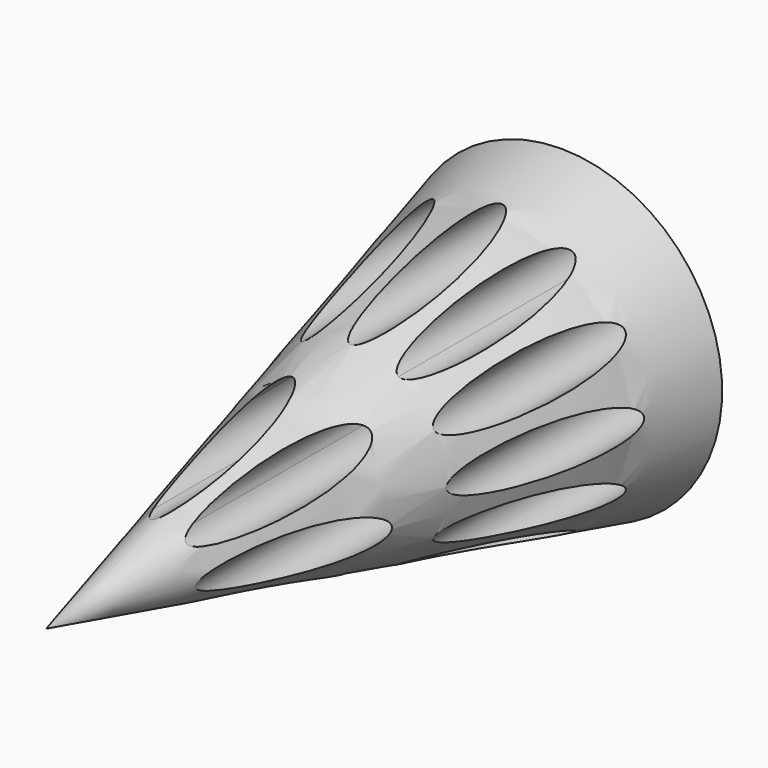
from build123d import *

# Parameters (mm, degrees)
F0_R     = 9.2951501464
F3_DEPTH = 254


with BuildPart() as f2:
    # F1 (on Right) → F2 (revolve)
    with BuildSketch(Plane.YZ):
        Polygon((-254, 0), (0, 0), (0, 63.5), align=None)
    revolve(axis=Axis((0, -127, 0), (0, -1, 0)))


with BuildPart() as f3:
    # F0 (on Front) → F3 (new body)
    with BuildSketch(Plane.XZ):
        with Locations((-46.8748604322, 0)):
            Circle(F0_R)
    extrude(amount=F3_DEPTH)


with BuildPart() as f3b:
    # F0 (on Front) → F3, piece 2 (new body)
    with BuildSketch(Plane.XZ):
        with Locations((-40.5948199332, -23.4374302161)):
            Circle(F0_R)
    extrude(amount=F3_DEPTH)


with BuildPart() as f3c:
    # F0 (on Front) → F3, piece 3 (new body)
    with BuildSketch(Plane.XZ):
        with BuildLine():
            ThreePointArc((-14.1422800698, -40.5948199332), (-15.3875940574, -35.94724486), (-18.7898551429, -32.5449837744))
            Line((-18.7898551429, -32.5449837744), (-28.0850052893, -48.6446560919))
            ThreePointArc((-28.0850052893, -48.6446560919), (-18.7898551429, -48.6446560919), (-14.1422800698, -40.5948199332))
        make_face()
        with BuildLine():
            Line((-28.0850052893, -48.6446560919), (-18.7898551429, -32.5449837744))
            ThreePointArc((-18.7898551429, -32.5449837744), (-31.4872663749, -35.94724486), (-28.0850052893, -48.6446560919))
        make_face()
    extrude(amount=F3_DEPTH)


with BuildPart() as f3d:
    # F0 (on Front) → F3, piece 4 (new body)
    with BuildSketch(Plane.XZ):
        with Locations((0, -46.8748604322)):
            Circle(F0_R)
    extrude(amount=F3_DEPTH)


with BuildPart() as f3e:
    # F0 (on Front) → F3, piece 5 (new body)
    with BuildSketch(Plane.XZ):
        with BuildLine():
            Line((28.0850052893, -48.6446560919), (18.7898551429, -32.5449837744))
            ThreePointArc((18.7898551429, -32.5449837744), (15.3875940574, -45.2423950064), (28.0850052893, -48.6446560919))
        make_face()
        with BuildLine():
            ThreePointArc((32.7325803625, -40.5948199332), (28.0850052893, -32.5449837744), (18.7898551429, -32.5449837744))
            Line((18.7898551429, -32.5449837744), (28.0850052893, -48.6446560919))
            ThreePointArc((28.0850052893, -48.6446560919), (31.4872663749, -45.2423950064), (32.7325803625, -40.5948199332))
        make_face()
    extrude(amount=F3_DEPTH)


with BuildPart() as f3f:
    # F0 (on Front) → F3, piece 6 (new body)
    with BuildSketch(Plane.XZ):
        with Locations((40.5948199332, -23.4374302161)):
            Circle(F0_R)
    extrude(amount=F3_DEPTH)


with BuildPart() as f3g:
    # F0 (on Front) → F3, piece 7 (new body)
    with BuildSketch(Plane.XZ):
        with Locations((46.8748604322, 0)):
            Circle(F0_R)
    extrude(amount=F3_DEPTH)


with BuildPart() as f3h:
    # F0 (on Front) → F3, piece 8 (new body)
    with BuildSketch(Plane.XZ):
        with Locations((40.5948199332, 23.4374302161)):
            Circle(F0_R)
    extrude(amount=F3_DEPTH)


with BuildPart() as f3i:
    # F0 (on Front) → F3, piece 9 (new body)
    with BuildSketch(Plane.XZ):
        with BuildLine():
            Line((28.0850052893, 48.6446560919), (18.7898551429, 32.5449837744))
            ThreePointArc((18.7898551429, 32.5449837744), (28.0850052893, 32.5449837744), (32.7325803625, 40.5948199332))
            ThreePointArc((32.7325803625, 40.5948199332), (31.4872663749, 45.2423950064), (28.0850052893, 48.6446560919))
        make_face()
        with BuildLine():
            ThreePointArc((28.0850052893, 48.6446560919), (15.3875940574, 45.2423950064), (18.7898551429, 32.5449837744))
            Line((18.7898551429, 32.5449837744), (28.0850052893, 48.6446560919))
        make_face()
    extrude(amount=F3_DEPTH)


with BuildPart() as f3j:
    # F0 (on Front) → F3, piece 10 (new body)
    with BuildSketch(Plane.XZ):
        with Locations((0, 46.8748604322)):
            Circle(F0_R)
    extrude(amount=F3_DEPTH)


with BuildPart() as f3k:
    # F0 (on Front) → F3, piece 11 (new body)
    with BuildSketch(Plane.XZ):
        with BuildLine():
            Line((-18.7898551429, 32.5449837744), (-28.0850052893, 48.6446560919))
            ThreePointArc((-28.0850052893, 48.6446560919), (-31.4872663749, 35.94724486), (-18.7898551429, 32.5449837744))
        make_face()
        with BuildLine():
            ThreePointArc((-18.7898551429, 32.5449837744), (-15.3875940574, 35.94724486), (-14.1422800698, 40.5948199332))
            ThreePointArc((-14.1422800698, 40.5948199332), (-18.7898551429, 48.6446560919), (-28.0850052893, 48.6446560919))
            Line((-28.0850052893, 48.6446560919), (-18.7898551429, 32.5449837744))
        make_face()
    extrude(amount=F3_DEPTH)


with BuildPart() as f3l:
    # F0 (on Front) → F3, piece 12 (new body)
    with BuildSketch(Plane.XZ):
        with Locations((-40.5948199332, 23.4374302161)):
            Circle(F0_R)
    extrude(amount=F3_DEPTH)


with BuildPart() as f3m:
    # F0 (on Front) → F3, piece 13 (new body)
    with BuildSketch(Plane.XZ):
        with Locations((-22.6388191476, 6.0660533082)):
            Circle(F0_R)
    extrude(amount=F3_DEPTH)


with BuildPart() as f3n:
    # F0 (on Front) → F3, piece 14 (new body)
    with BuildSketch(Plane.XZ):
        with BuildLine():
            Line((-14.8408728175, -25.7051457485), (-7.7979463301, -13.5064392385))
            ThreePointArc((-7.7979463301, -13.5064392385), (-24.6226019982, -11.9251907662), (-14.8408728175, -25.7051457485))
        make_face()
        with BuildLine():
            ThreePointArc((-7.277615693, -16.5727658394), (-7.4086215507, -15.0176852309), (-7.7979463301, -13.5064392385))
            Line((-7.7979463301, -13.5064392385), (-14.8408728175, -25.7051457485))
            ThreePointArc((-14.8408728175, -25.7051457485), (-9.4139243857, -22.5015772956), (-7.277615693, -16.5727658394))
        make_face()
    extrude(amount=F3_DEPTH)


with BuildPart() as f3o:
    # F0 (on Front) → F3, piece 15 (new body)
    with BuildSketch(Plane.XZ):
        with BuildLine():
            Line((14.8408728175, -25.7051457485), (7.7979463301, -13.5064392385))
            ThreePointArc((7.7979463301, -13.5064392385), (-1.9837828506, -27.2863942208), (14.8408728175, -25.7051457485))
        make_face()
        with BuildLine():
            ThreePointArc((15.3612034546, -22.6388191476), (13.224894762, -16.7100076914), (7.7979463301, -13.5064392385))
            Line((7.7979463301, -13.5064392385), (14.8408728175, -25.7051457485))
            ThreePointArc((14.8408728175, -25.7051457485), (15.2301975969, -24.1938997561), (15.3612034546, -22.6388191476))
        make_face()
    extrude(amount=F3_DEPTH)


with BuildPart() as f3p:
    # F0 (on Front) → F3, piece 16 (new body)
    with BuildSketch(Plane.XZ):
        with Locations((22.6388191476, -6.0660533082)):
            Circle(F0_R)
    extrude(amount=F3_DEPTH)


with BuildPart() as f3q:
    # F0 (on Front) → F3, piece 17 (new body)
    with BuildSketch(Plane.XZ):
        with BuildLine():
            Line((14.8408728175, 25.7051457485), (7.7979463301, 13.5064392385))
            ThreePointArc((7.7979463301, 13.5064392385), (18.1278464479, 7.4086215507), (25.8679159858, 16.5727658394))
            ThreePointArc((25.8679159858, 16.5727658394), (22.5015772956, 23.7316072932), (14.8408728175, 25.7051457485))
        make_face()
        with BuildLine():
            ThreePointArc((14.8408728175, 25.7051457485), (8.5229296807, 21.2203409126), (7.7979463301, 13.5064392385))
            Line((7.7979463301, 13.5064392385), (14.8408728175, 25.7051457485))
        make_face()
    extrude(amount=F3_DEPTH)


with BuildPart() as f3r:
    # F0 (on Front) → F3, piece 18 (new body)
    with BuildSketch(Plane.XZ):
        with BuildLine():
            ThreePointArc((3.2290968382, 22.6388191476), (-4.5109726997, 31.8029634363), (-14.8408728175, 25.7051457485))
            Line((-14.8408728175, 25.7051457485), (-7.7979463301, 13.5064392385))
            ThreePointArc((-7.7979463301, 13.5064392385), (-0.137241852, 15.4799776938), (3.2290968382, 22.6388191476))
        make_face()
        with BuildLine():
            Line((-7.7979463301, 13.5064392385), (-14.8408728175, 25.7051457485))
            ThreePointArc((-14.8408728175, 25.7051457485), (-14.1158894669, 17.9912440744), (-7.7979463301, 13.5064392385))
        make_face()
    extrude(amount=F3_DEPTH)


with BuildPart() as f2_1:
    add(f2.part)

    # F4: cut F3j, F3q, F3o, F3m, F3g, F3c, F3, F3k, F3h, F3f, F3d, F3b, F3l, F3e, F3n, F3p, F3r, F3i
    add(f3j.part, mode=Mode.SUBTRACT)
    add(f3q.part, mode=Mode.SUBTRACT)
    add(f3o.part, mode=Mode.SUBTRACT)
    add(f3m.part, mode=Mode.SUBTRACT)
    add(f3g.part, mode=Mode.SUBTRACT)
    add(f3c.part, mode=Mode.SUBTRACT)
    add(f3.part, mode=Mode.SUBTRACT)
    add(f3k.part, mode=Mode.SUBTRACT)
    add(f3h.part, mode=Mode.SUBTRACT)
    add(f3f.part, mode=Mode.SUBTRACT)
    add(f3d.part, mode=Mode.SUBTRACT)
    add(f3b.part, mode=Mode.SUBTRACT)
    add(f3l.part, mode=Mode.SUBTRACT)
    add(f3e.part, mode=Mode.SUBTRACT)
    add(f3n.part, mode=Mode.SUBTRACT)
    add(f3p.part, mode=Mode.SUBTRACT)
    add(f3r.part, mode=Mode.SUBTRACT)
    add(f3i.part, mode=Mode.SUBTRACT)


solid = f2_1.part
